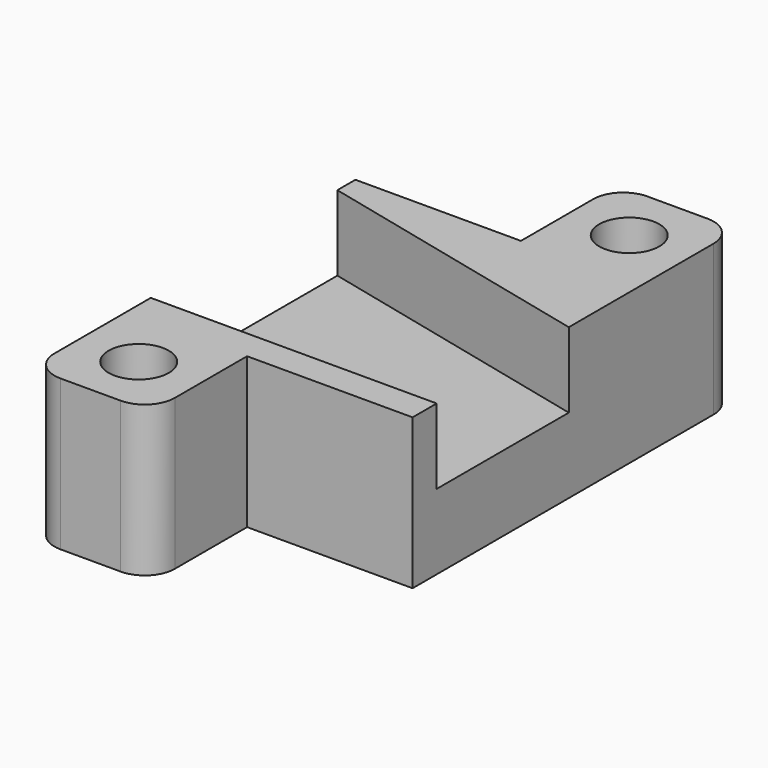
from build123d import *

# Parameters (mm, degrees)
CYLINDER006_R     = 2
CYLINDER006_DEPTH = 10
BOX005_W          = 8
BOX005_H          = 8
BOX005_DEPTH      = 10
FILLET002_R       = 2
CYLINDER007_R     = 2
CYLINDER007_DEPTH = 10
BOX006_W          = 8
BOX006_H          = 8
BOX006_DEPTH      = 10
FILLET003_R       = 2
PAD002_DEPTH      = 5
BOX002_W          = 19
BOX002_H          = 19
BOX002_DEPTH      = 10


with BuildPart() as cylinder006:
    # Cylinder006 → Cylinder006 (new body)
    with BuildSketch(Plane(origin=(4, 4, 0), x_dir=(1, 0, 0), z_dir=(0, 0, 1))):
        Circle(CYLINDER006_R)
    extrude(amount=CYLINDER006_DEPTH)


with BuildPart() as fillet002:
    # Box005 → Box005 (new body)
    with BuildSketch(Plane.XY):
        with Locations((4, 4)):
            Rectangle(BOX005_W, BOX005_H)
    extrude(amount=BOX005_DEPTH)

    # Cut006: cut Cylinder006
    add(cylinder006.part, mode=Mode.SUBTRACT)


with BuildPart() as fillet002_1:
    # Cut006 placement: moved
    add(fillet002.part.moved(Location((30, -10, 0))))

    # Fillet002
    fillet002_edges = [fillet002_1.edges().sort_by_distance(p)[0] for p in [
        (30, -10, 5),
        (38, -10, 5),
    ]]
    fillet(fillet002_edges, radius=FILLET002_R)


with BuildPart() as fillet002_2:
    # Fillet002 placement: moved
    add(fillet002_1.part.moved(Location((40, 0, 0))))


with BuildPart() as cylinder007:
    # Cylinder007 → Cylinder007 (new body)
    with BuildSketch(Plane(origin=(4, 4, 0), x_dir=(1, 0, 0), z_dir=(0, 0, 1))):
        Circle(CYLINDER007_R)
    extrude(amount=CYLINDER007_DEPTH)


with BuildPart() as fillet003:
    # Box006 → Box006 (new body)
    with BuildSketch(Plane.XY):
        with Locations((4, 4)):
            Rectangle(BOX006_W, BOX006_H)
    extrude(amount=BOX006_DEPTH)

    # Cut007: cut Cylinder007
    add(cylinder007.part, mode=Mode.SUBTRACT)


with BuildPart() as fillet003_1:
    # Cut007 placement: moved
    add(fillet003.part.moved(Location((45, 14, 0))))

    # Fillet003
    fillet003_edges = [fillet003_1.edges().sort_by_distance(p)[0] for p in [
        (45, 22, 5),
        (53, 22, 5),
    ]]
    fillet(fillet003_edges, radius=FILLET003_R)


with BuildPart() as fillet003_2:
    # Fillet003 placement: moved
    add(fillet003_1.part.moved(Location((36, 3, 0))))


with BuildPart() as obj1:
    # Sketch002 → Pad002 (new body)
    with BuildSketch(Plane(origin=(0, 0, 0), x_dir=(-1, 0, 0), z_dir=(0, 0, 1))):
        Polygon((-70, 0), (-70, -15.5), (-101.5, -8), (-101.5, 0), align=None)
    extrude(amount=PAD002_DEPTH)


with BuildPart() as obj1_1:
    # Body002 placement: moved
    add(obj1.part.moved(Location((0, 0, 5))))


with BuildPart() as obj2:
    # Box002 → Box002 (new body)
    with BuildSketch(Plane(origin=(70, -2, 0), x_dir=(1, 0, 0), z_dir=(0, 0, 1))):
        with Locations((9.5, 9.5)):
            Rectangle(BOX002_W, BOX002_H)
    extrude(amount=BOX002_DEPTH)

    # Cut002: cut obj1
    add(obj1_1.part, mode=Mode.SUBTRACT)

    # Fusion001: union Fillet002, Fillet003
    add(fillet002_2.part)
    add(fillet003_2.part)


solid = obj2.part
